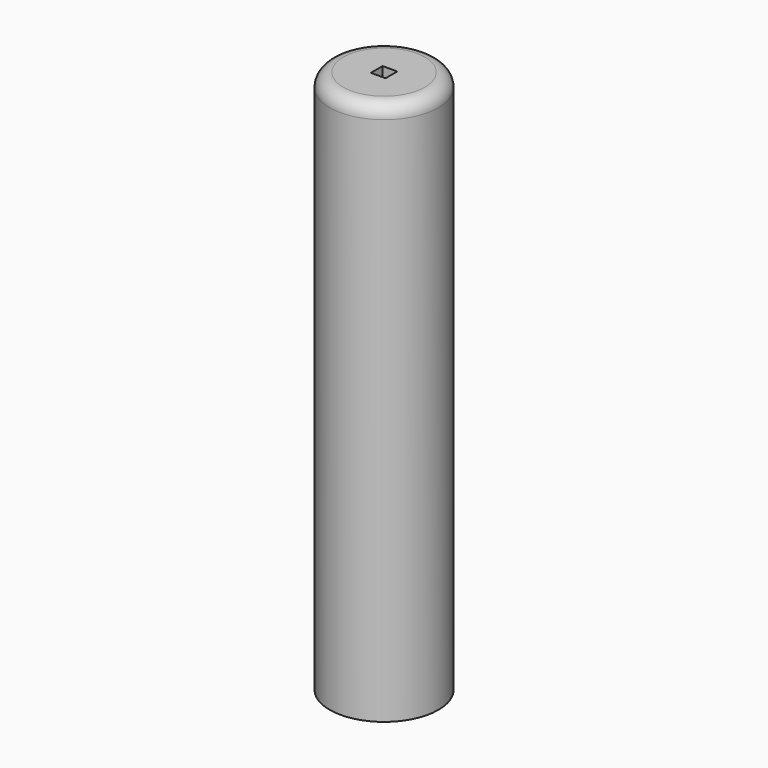
from build123d import *

# Parameters (mm, degrees)
F0_R     = 12.7
F1_DEPTH = 127
F2_R     = 3.175
F3_W     = 3.429
F3_H     = 3.429
F4_DEPTH = 127.001


with BuildPart() as f1:
    # F0 (on Top) → F1 (new body)
    with BuildSketch(Plane.XY):
        Circle(F0_R)
    extrude(amount=F1_DEPTH)

    # F2
    f2_edges = [f1.edges().sort_by_distance(p)[0] for p in [
        (-12.7, 0, 127),
    ]]
    fillet(f2_edges, radius=F2_R)

    # F3 (on face) → F4 (cut, through all)
    with BuildSketch(Plane.XY.offset(127)):
        Rectangle(F3_W, F3_H)
    extrude(amount=-F4_DEPTH, mode=Mode.SUBTRACT)


solid = f1.part
